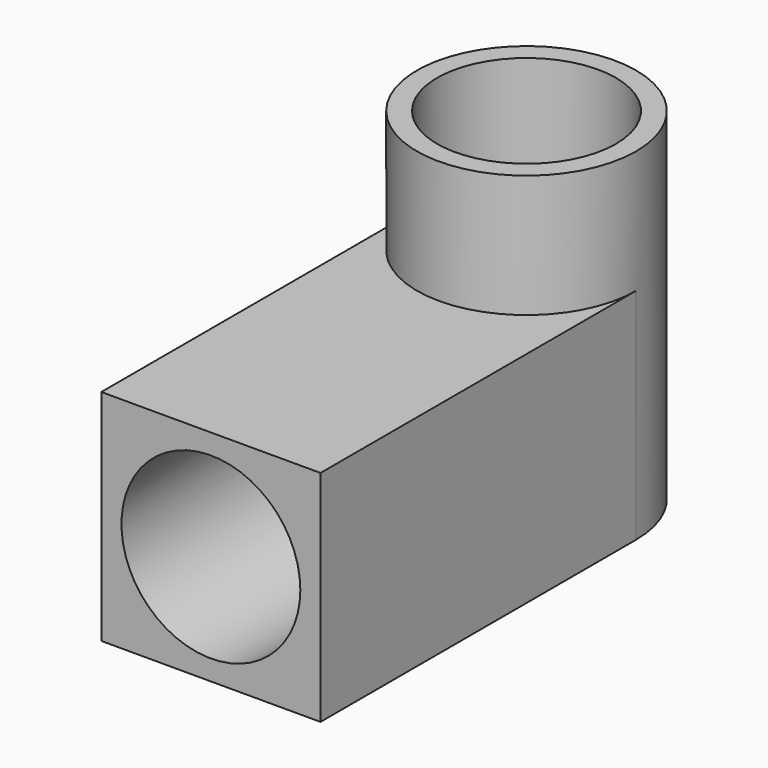
from build123d import *

# Parameters (mm, degrees)
F0_W     = 31.75
F0_H     = 73.025
F1_DEPTH = 31.75
F2_R     = 15.875
F2_R_2   = 12.954
F3_DEPTH = 17.78
F4_DEPTH = 31.751
F5_DEPTH = 31.751
F6_DEPTH = 29.21
F7_R     = 12.954
F8_DEPTH = 57.15


with BuildPart() as f1:
    # F0 (on Top) → F1 (new body)
    with BuildSketch(Plane.XY):
        Rectangle(F0_W, F0_H)
    extrude(amount=F1_DEPTH)

    # F2 (on face) → F3 (join)
    with BuildSketch(Plane.XY.offset(31.75)):
        with Locations((0, 20.6375)):
            Circle(F2_R)
        with Locations((0, 20.6375)):
            Circle(F2_R_2, mode=Mode.SUBTRACT)
    extrude(amount=F3_DEPTH)

    # F4 (cut, through all): a face of the model
    f4_faces = [f1.faces().sort_by_distance(p)[0] for p in [
        (-12.3290339692, 32.9665339692, 31.75),
    ]]
    extrude(f4_faces, amount=-F4_DEPTH, mode=Mode.SUBTRACT)

    # F5 (cut, through all): a face of the model
    f5_faces = [f1.faces().sort_by_distance(p)[0] for p in [
        (12.3290339692, 32.9665339692, 31.75),
    ]]
    extrude(f5_faces, amount=-F5_DEPTH, mode=Mode.SUBTRACT)

    # F6 (cut): a face of the model
    f6_faces = [f1.faces().sort_by_distance(p)[0] for p in [
        (0, 20.6375, 31.75),
    ]]
    extrude(f6_faces, amount=-F6_DEPTH, mode=Mode.SUBTRACT)

    # F7 (on face) → F8 (cut)
    with BuildSketch(Plane.XZ.offset(36.5125)):
        with Locations((0, 15.875)):
            Circle(F7_R)
    extrude(amount=-F8_DEPTH, mode=Mode.SUBTRACT)


solid = f1.part
